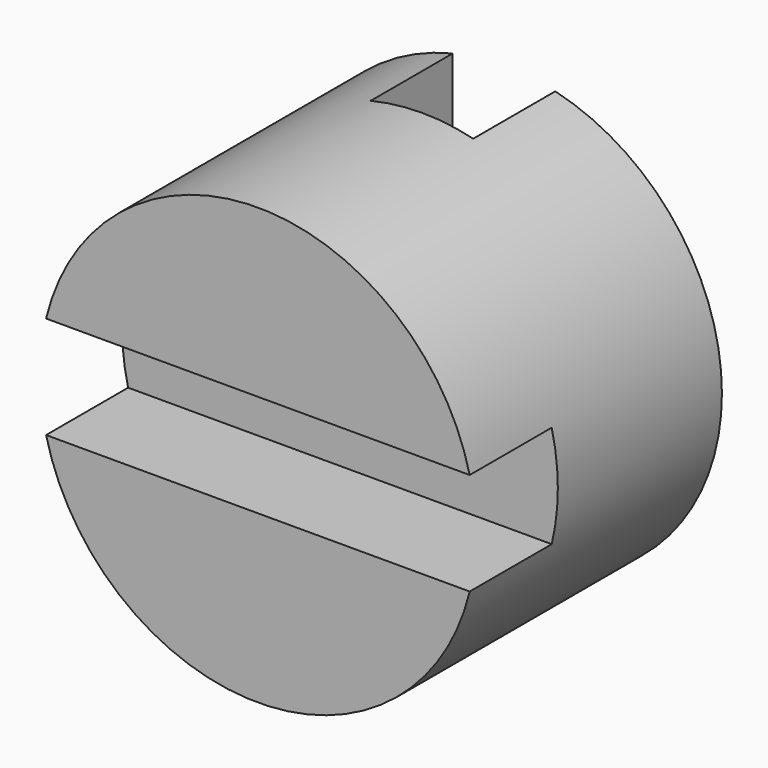
from build123d import *

# Parameters (mm, degrees)
F0_R     = 21.59
F1_DEPTH = 15.24
F2_W     = 41.967688
F2_H     = 10.16
F3_DEPTH = 10.16
F4_W     = 10.16
F4_H     = 41.967688
F5_DEPTH = 10.16


with BuildPart() as f1:
    # F0 (on Front) → F1 (new body, symmetric)
    with BuildSketch(Plane.XZ):
        Circle(F0_R)
    extrude(amount=F1_DEPTH, both=True)

    # F2 (on face) → F3 (cut)
    with BuildSketch(Plane.XZ.offset(15.24)):
        Rectangle(F2_W, F2_H)
        with BuildLine():
            ThreePointArc((-20.983844, 5.08), (-21.59, 0), (-20.983844, -5.08))
            Line((-20.983844, -5.08), (-20.983844, 5.08))
        make_face()
        with BuildLine():
            Line((20.983844, 5.08), (20.983844, -5.08))
            ThreePointArc((20.983844, -5.08), (21.437925, -2.558018), (21.59, 0))
            ThreePointArc((21.59, 0), (21.437925, 2.558018), (20.983844, 5.08))
        make_face()
    extrude(amount=-F3_DEPTH, mode=Mode.SUBTRACT)

    # F4 (on face) → F5 (cut)
    with BuildSketch(Plane(origin=(0, 15.24, 0), x_dir=(-1, 0, 0), z_dir=(0, 1, 0))):
        with BuildLine():
            ThreePointArc((5.08, 20.983844), (0, 21.59), (-5.08, 20.983844))
            Line((-5.08, 20.983844), (5.08, 20.983844))
        make_face()
        Rectangle(F4_W, F4_H)
        with BuildLine():
            Line((5.08, -20.983844), (-5.08, -20.983844))
            ThreePointArc((-5.08, -20.983844), (0, -21.59), (5.08, -20.983844))
        make_face()
    extrude(amount=-F5_DEPTH, mode=Mode.SUBTRACT)


solid = f1.part
